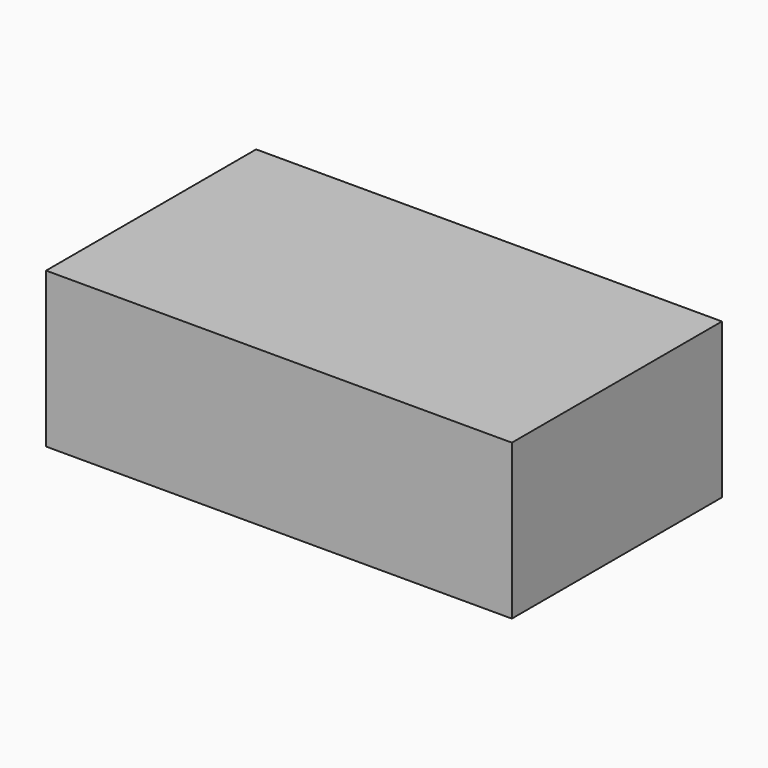
from build123d import *

# Parameters (mm, degrees)
F0_W     = 80.948703
F0_H     = 45.630322
F1_DEPTH = 26.924
F2_W     = 6.187161
F2_H     = 23.429776
F3_DEPTH = 25.4
F4_R     = 10.198526
F5_DEPTH = 26.924


with BuildPart() as f1:
    # F0 (on Top) → F1 (new body)
    with BuildSketch(Plane.XY):
        with Locations((3.948071, 9.895361)):
            Rectangle(F0_W, F0_H)
    extrude(amount=F1_DEPTH)

    # F2 (on Top) → F3 (join)
    with BuildSketch(Plane.XY):
        with BuildLine():
            ThreePointArc((-20.002084, 23.429776), (-23.095665, 26.523356), (-26.189245, 23.429776))
            Line((-26.189245, 23.429776), (-20.002084, 23.429776))
        make_face()
        with Locations((-23.095664, 11.714888)):
            Rectangle(F2_W, F2_H)
        with BuildLine():
            Line((-20.002084, 0), (-26.189245, 0))
            ThreePointArc((-26.189245, 0), (-23.095665, -3.093581), (-20.002084, 0))
        make_face()
    extrude(amount=F3_DEPTH)

    # F4 (on Top) → F5 (join)
    with BuildSketch(Plane.XY):
        with Locations((21.245664, 8.993065)):
            Circle(F4_R)
    extrude(amount=F5_DEPTH)


solid = f1.part
